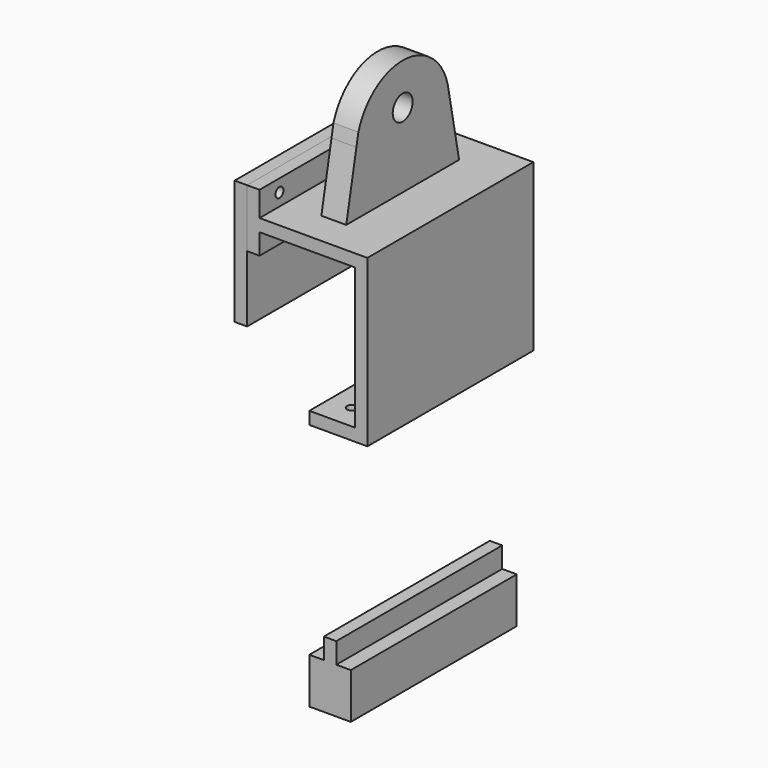
from build123d import *

# Parameters (mm, degrees)
F1_DEPTH  = 250
F3_DEPTH  = 15
F4_W      = 50
F4_H      = 250
F5_DEPTH  = 55
F6_W      = 15
F6_H      = 250
F7_DEPTH  = 25
F9_DEPTH  = 25
F10_W     = 30
F10_H     = 170
F11_DEPTH = 140
F12_R     = 15
F13_DEPTH = 30
F14_W     = 15
F14_H     = 250
F15_DEPTH = 30
F16_R     = 6
F17_DEPTH = 15
F18_W     = 250
F18_H     = 150
F18_R     = 6
F19_DEPTH = 15


with BuildPart() as f1:
    # F0 (on Front) → F1 (new body)
    with BuildSketch(Plane.XZ):
        Polygon((130, 397.2117710114), (75, 397.2117710114), (75, 382.2117710114), (145, 382.2117710114), (145, 582.2117710114), (0, 582.2117710114), (0, 542.2117710114), (15, 542.2117710114), (15, 567.2117710114), (130, 567.2117710114), align=None)
    extrude(amount=F1_DEPTH)

    # F2 (on face) → F3 (cut)
    with BuildSketch(Plane.XY.offset(397.2117710114)):
        with BuildLine():
            ThreePointArc((102.5, -226), (106.7426406871, -224.2426406871), (108.5, -220))
            ThreePointArc((108.5, -220), (98.2573593129, -215.7573593129), (102.5, -226))
        make_face()
        with BuildLine():
            ThreePointArc((102.5, -24), (98.2573593129, -34.2426406871), (108.5, -30))
            ThreePointArc((108.5, -30), (106.7426406871, -25.7573593129), (102.5, -24))
        make_face()
    extrude(amount=-F3_DEPTH, mode=Mode.SUBTRACT)

    # F10 (on face) → F11 (join)
    with BuildSketch(Plane.XY.offset(582.2117710114)):
        with Locations((72.5, -125)):
            Rectangle(F10_W, F10_H)
    extrude(amount=F11_DEPTH)

    # F12 (on face) → F13 (cut)
    with BuildSketch(Plane(origin=(57.5, 0, 0), x_dir=(0, -1, 0), z_dir=(-1, 0, 0))):
        with BuildLine():
            Line((191.7420676429, 673.31855681), (194.7212601627, 658.4524345433))
            ThreePointArc((194.7212601627, 658.4524345433), (193.6353433499, 665.9663936248), (191.7420676429, 673.31855681))
        make_face()
        with BuildLine():
            ThreePointArc((57.0990775302, 669.225433984), (56.3136439692, 665.7093446902), (55.7101562172, 662.1575011781))
            Line((55.7101562172, 662.1575011781), (57.0990775302, 669.225433984))
        make_face()
        with BuildLine():
            Line((40, 582.2117710114), (55.7101562172, 662.1575011781))
            ThreePointArc((55.7101562172, 662.1575011781), (56.3136439692, 665.7093446902), (57.0990775302, 669.225433984))
            ThreePointArc((57.0990775302, 669.225433984), (81.9358409352, 707.3976224956), (125, 722.2117710114))
            Line((125, 722.2117710114), (40, 722.2117710114))
            Line((40, 722.2117710114), (40, 582.2117710114))
        make_face()
        with Locations((125, 672.251701355)):
            Circle(F12_R)
        with BuildLine():
            ThreePointArc((191.7420676429, 673.31855681), (193.6353433499, 665.9663936248), (194.7212601627, 658.4524345433))
            Line((194.7212601627, 658.4524345433), (210, 582.2117710114))
            Line((210, 582.2117710114), (210, 585.6798887253))
            Line((210, 585.6798887253), (210, 722.2117710114))
            Line((210, 722.2117710114), (125, 722.2117710114))
            ThreePointArc((125, 722.2117710114), (166.3674086335, 708.6806784114), (191.7420676429, 673.31855681))
        make_face()
    extrude(amount=-F13_DEPTH, mode=Mode.SUBTRACT)

    # F14 (on face) → F15 (join)
    with BuildSketch(Plane.XY.offset(582.2117710114)):
        with Locations((7.5, -125)):
            Rectangle(F14_W, F14_H)
    extrude(amount=F15_DEPTH)

    # F16 (on face) → F17 (cut)
    with BuildSketch(Plane.YZ.offset(15)):
        with Locations((-220, 597.2117710114)):
            Circle(F16_R)
        with Locations((-30, 597.2117710114)):
            Circle(F16_R)
    extrude(amount=-F17_DEPTH, mode=Mode.SUBTRACT)


with BuildPart() as f5:
    # F4 (on Top) → F5 (new body)
    with BuildSketch(Plane.XY):
        Rectangle(F4_W, F4_H)
    extrude(amount=F5_DEPTH)

    # F6 (on face) → F7 (join)
    with BuildSketch(Plane.XY.offset(55)):
        Rectangle(F6_W, F6_H)
    extrude(amount=F7_DEPTH)

    # F8 (on face) → F9 (cut)
    with BuildSketch(Plane(origin=(0, 0, 0), x_dir=(1, 0, 0), z_dir=(0, 0, -1))):
        with BuildLine():
            ThreePointArc((0, 101), (-4.2426406871, 90.7573593129), (6, 95))
            ThreePointArc((6, 95), (4.2426406871, 99.2426406871), (0, 101))
        make_face()
        with BuildLine():
            ThreePointArc((0, -101), (4.2426406871, -99.2426406871), (6, -95))
            ThreePointArc((6, -95), (-4.2426406871, -90.7573593129), (0, -101))
        make_face()
    extrude(amount=-F9_DEPTH, mode=Mode.SUBTRACT)


with BuildPart() as f19:
    # F18 (on face) → F19 (new body)
    with BuildSketch(Plane(origin=(0, 0, 0), x_dir=(0, -1, 0), z_dir=(-1, 0, 0))):
        with Locations((125, 537.2117710114)):
            Rectangle(F18_W, F18_H)
        with Locations((30, 597.2117710114)):
            Circle(F18_R, mode=Mode.SUBTRACT)
        with Locations((220, 597.2117710114)):
            Circle(F18_R, mode=Mode.SUBTRACT)
    extrude(amount=F19_DEPTH)


solid = Compound([f1.part, f5.part, f19.part])
